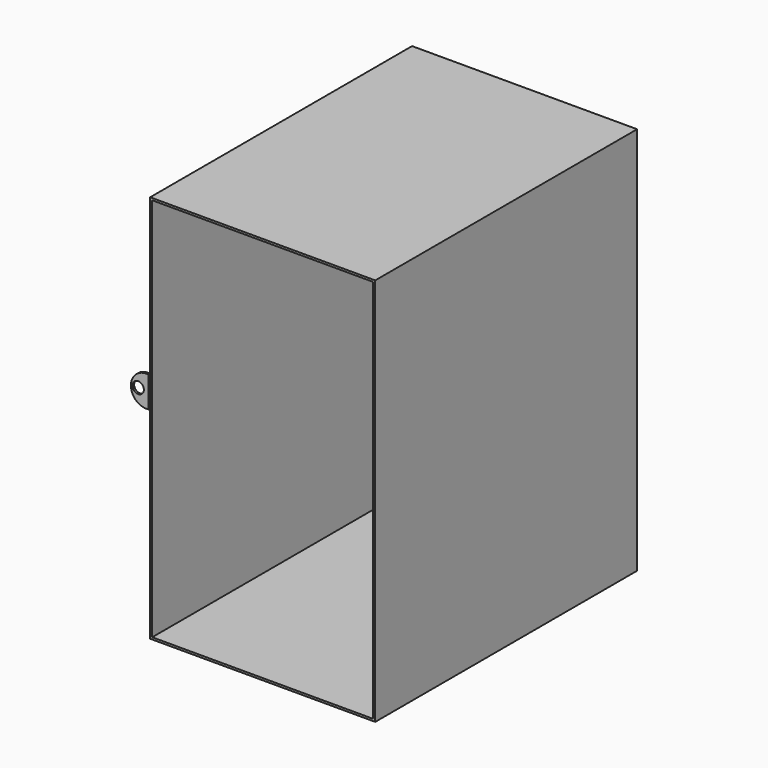
from build123d import *

# Parameters (mm, degrees)
F0_W     = 279.4
F0_H     = 482.6
F1_DEPTH = 25.4
F2_DEPTH = 381
F3_T     = -2.54
F4_R     = 7.0739
F5_DEPTH = 2.54


with BuildPart() as f1:
    # F0 (on Front) → F1 (new body)
    with BuildSketch(Plane.XZ):
        Rectangle(F0_W, F0_H)
    extrude(amount=F1_DEPTH)

    # F2 (add): a face of the model
    f2_faces = [f1.faces().sort_by_distance(p)[0] for p in [
        (0, -25.4, 0),
    ]]
    extrude(f2_faces, amount=F2_DEPTH)

    # F3
    f3_openings = [f1.faces().sort_by_distance(p)[0] for p in [
        (0, -406.4, 0),
    ]]
    offset(amount=F3_T, openings=f3_openings)


with BuildPart() as f5:
    # F4 (on face) → F5 (new body)
    with BuildSketch(Plane.XZ.offset(406.4)):
        with BuildLine():
            Line((-139.7, 10.4644373059), (-139.7, 48.4795074795))
            ThreePointArc((-139.7, 48.4795074795), (-161.6310948682, 29.4719723927), (-139.7, 10.4644373059))
        make_face()
        with Locations((-152.5672972202, 30.0274454057)):
            Circle(F4_R, mode=Mode.SUBTRACT)
    extrude(amount=F5_DEPTH)


solid = Compound([f1.part, f5.part])
